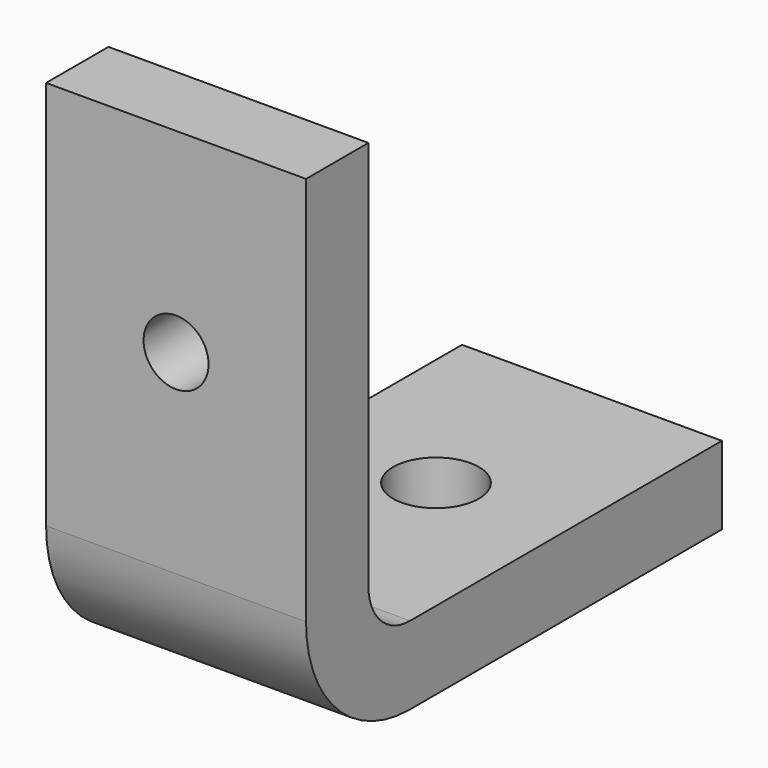
from build123d import *

# Parameters (mm, degrees)
F2_W = 10
F2_H = 3
F5_D = 3.3
F7_D = 2.5


with BuildPart() as f3:
    # F3: sweep along a path in F0
    with BuildLine(Plane.YZ) as f3_path:
        Line((20, 0), (5, 0))
        ThreePointArc((5, 0), (1.4644660941, 1.4644660941), (0, 5))
        Line((0, 5), (0, 20))
    # F2 (on line) → F3 (sweep)
    with BuildSketch(Plane.XZ.offset(-20)):
        with Locations((-5, 1.5)):
            Rectangle(F2_W, F2_H)
    sweep(path=f3_path.line)

    # F5 (through all)
    with Locations(Plane.XY.offset(3)):
        with Locations((-5, 12.5)):
            Hole(F5_D / 2)

    # F7 (through all)
    with Locations(Plane(origin=(0, 3, 0), x_dir=(-1, 0, 0), z_dir=(0, 1, 0))):
        with Locations((5, 12.5)):
            Hole(F7_D / 2)


solid = f3.part
